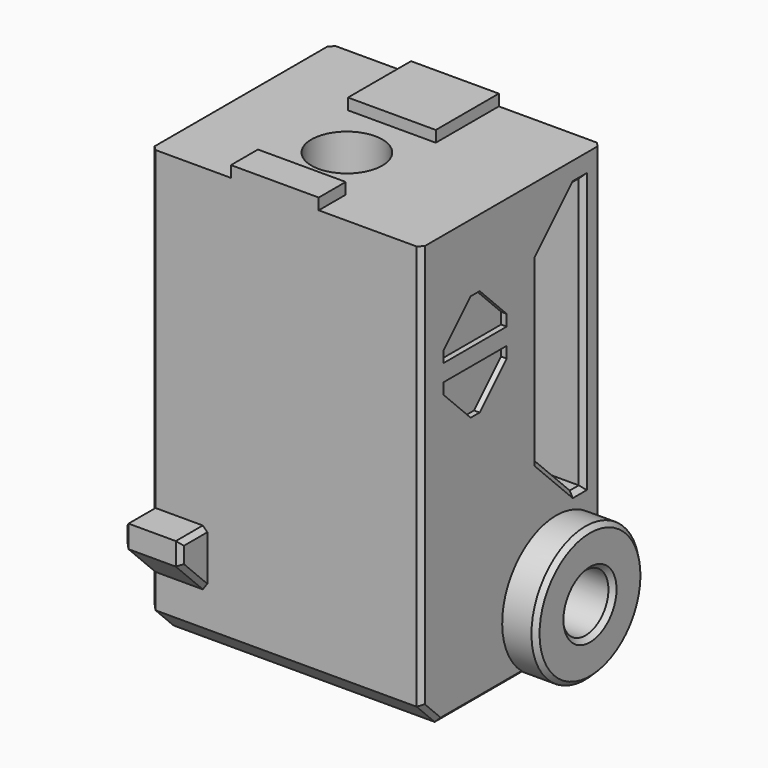
from build123d import *

# Parameters (mm, degrees)
CYLINDER024_R               = 7.5
CYLINDER024_DEPTH           = 2
CYLINDER012_R               = 3.15
CYLINDER012_DEPTH           = 43
CYLINDER011_R               = 2
CYLINDER011_DEPTH           = 39
CYLINDER013_R               = 2.55
CYLINDER013_DEPTH           = 6
BOX022_W                    = 1
BOX022_H                    = 7
BOX022_DEPTH                = 4
BOX023_W                    = 1
BOX023_H                    = 7
BOX023_DEPTH                = 4
CHAMFER003068012002016_SIZE = 3
BOX020_W                    = 7.8
BOX020_H                    = 3
BOX020_DEPTH                = 1
BOX018_W                    = 7.8
BOX018_H                    = 7
BOX018_DEPTH                = 1
BOX021_W                    = 5
BOX021_H                    = 4
BOX021_DEPTH                = 5
CHAMFER003068012002041_SIZE = 3
CHAMFER003068012002042_SIZE = 0.4
BOX017_W                    = 25
BOX017_H                    = 5
BOX017_DEPTH                = 24
CHAMFER003068012002002_SIZE = 4
BOX015_W                    = 24
BOX015_H                    = 20
BOX015_DEPTH                = 38
CHAMFER003068012002006_SIZE = 2
CHAMFER003068012002007_SIZE = 2
CHAMFER003068012002009_SIZE = 0.4
CYLINDER023_R               = 6
CYLINDER023_DEPTH           = 27
CHAMFER003068012002044_SIZE = 0.4
CHAMFER003068012002045_SIZE = 0.4


with BuildPart() as cylinder024:
    # Cylinder024 → Cylinder024 (new body)
    with BuildSketch(Plane(origin=(-15, 6, -12), x_dir=(1, 0, 0), z_dir=(0, 0, 1))):
        Circle(CYLINDER024_R)
    extrude(amount=CYLINDER024_DEPTH)


with BuildPart() as cylinder012:
    # Cylinder012 → Cylinder012 (new body)
    with BuildSketch(Plane(origin=(-15, 6, -11), x_dir=(1, 0, 0), z_dir=(0, 0, 1))):
        Circle(CYLINDER012_R)
    extrude(amount=CYLINDER012_DEPTH)


with BuildPart() as cylinder011:
    # Cylinder011 → Cylinder011 (new body)
    with BuildSketch(Plane(origin=(1, 13, -5), x_dir=(0, 0, 1), z_dir=(-1, 0, 0))):
        Circle(CYLINDER011_R)
    extrude(amount=CYLINDER011_DEPTH)


with BuildPart() as fusion001002012005:
    # Cylinder013 → Cylinder013 (new body)
    with BuildSketch(Plane(origin=(1, 13, -5), x_dir=(0, 0, 1), z_dir=(-1, 0, 0))):
        Circle(CYLINDER013_R)
    extrude(amount=CYLINDER013_DEPTH)

    # Fusion001002012005: union Cylinder011
    add(cylinder011.part)


with BuildPart() as cube022:
    # Box022 → Box022 (new body)
    with BuildSketch(Plane(origin=(-2.5, 0.5, 16.5), x_dir=(1, 0, 0), z_dir=(0, 0, 1))):
        with Locations((0.5, 3.5)):
            Rectangle(BOX022_W, BOX022_H)
    extrude(amount=BOX022_DEPTH)


with BuildPart() as chamfer003068012002016:
    # Box023 → Box023 (new body)
    with BuildSketch(Plane(origin=(-2.5, 0.5, 11), x_dir=(1, 0, 0), z_dir=(0, 0, 1))):
        with Locations((0.5, 3.5)):
            Rectangle(BOX023_W, BOX023_H)
    extrude(amount=BOX023_DEPTH)

    # Fusion001002012009: union Cube022
    add(cube022.part)

    # Chamfer003068012002016
    chamfer003068012002016_edges = [chamfer003068012002016.edges().sort_by_distance(p)[0] for p in [
        (-2, 0.5, 11),
        (-2, 7.5, 11),
        (-2, 0.5, 20.5),
        (-2, 7.5, 20.5),
    ]]
    chamfer(chamfer003068012002016_edges, length=CHAMFER003068012002016_SIZE)


with BuildPart() as chamfer003068012002016_1:
    # Chamfer003068012002016 placement: moved
    add(chamfer003068012002016.part.moved(Location((0, 0, 1.5))))


with BuildPart() as cube020:
    # Box020 → Box020 (new body)
    with BuildSketch(Plane(origin=(-18.9, -2, 28), x_dir=(1, 0, 0), z_dir=(0, 0, 1))):
        with Locations((3.9, 1.5)):
            Rectangle(BOX020_W, BOX020_H)
    extrude(amount=BOX020_DEPTH)


with BuildPart() as fusion001002012023:
    # Box018 → Box018 (new body)
    with BuildSketch(Plane(origin=(-18.9, 11, 28), x_dir=(1, 0, 0), z_dir=(0, 0, 1))):
        with Locations((3.9, 3.5)):
            Rectangle(BOX018_W, BOX018_H)
    extrude(amount=BOX018_DEPTH)

    # Fusion001002012023: union Cube020
    add(cube020.part)


with BuildPart() as chamfer003068012002042:
    # Box021 → Box021 (new body)
    with BuildSketch(Plane(origin=(-26, -5, -5), x_dir=(1, 0, 0), z_dir=(0, 0, 1))):
        with Locations((2.5, 2)):
            Rectangle(BOX021_W, BOX021_H)
    extrude(amount=BOX021_DEPTH)

    # Chamfer003068012002041
    chamfer003068012002041_edges = [chamfer003068012002042.edges().sort_by_distance(p)[0] for p in [
        (-23.5, -5, -5),
    ]]
    chamfer(chamfer003068012002041_edges, length=CHAMFER003068012002041_SIZE)

    # Chamfer003068012002042
    chamfer003068012002042_edges = [chamfer003068012002042.edges().sort_by_distance(p)[0] for p in [
        (-26, -5, -1),
        (-26, -3.5, -3.5),
        (-26, -3, 0),
        (-21, -5, -1),
        (-21, -3.5, -3.5),
        (-21, -3, 0),
    ]]
    chamfer(chamfer003068012002042_edges, length=CHAMFER003068012002042_SIZE)


with BuildPart() as chamfer003068012002002:
    # Box017 → Box017 (new body)
    with BuildSketch(Plane(origin=(-26, 11, 2), x_dir=(1, 0, 0), z_dir=(0, 0, 1))):
        with Locations((12.5, 2.5)):
            Rectangle(BOX017_W, BOX017_H)
    extrude(amount=BOX017_DEPTH)

    # Chamfer003068012002002
    chamfer003068012002002_edges = [chamfer003068012002002.edges().sort_by_distance(p)[0] for p in [
        (-13.5, 11, 2),
        (-13.5, 11, 26),
    ]]
    chamfer(chamfer003068012002002_edges, length=CHAMFER003068012002002_SIZE)


with BuildPart() as chamfer003068012002009:
    # Box015 → Box015 (new body)
    with BuildSketch(Plane(origin=(-26, -2, -10), x_dir=(1, 0, 0), z_dir=(0, 0, 1))):
        with Locations((12, 10)):
            Rectangle(BOX015_W, BOX015_H)
    extrude(amount=BOX015_DEPTH)

    # Cut001008: cut Chamfer003068012002002
    add(chamfer003068012002002.part, mode=Mode.SUBTRACT)

    # Chamfer003068012002006
    chamfer003068012002006_edges = [chamfer003068012002009.edges().sort_by_distance(p)[0] for p in [
        (-14, 18, -10),
    ]]
    chamfer(chamfer003068012002006_edges, length=CHAMFER003068012002006_SIZE)

    # Chamfer003068012002007
    chamfer003068012002007_edges = [chamfer003068012002009.edges().sort_by_distance(p)[0] for p in [
        (-14, -2, -10),
    ]]
    chamfer(chamfer003068012002007_edges, length=CHAMFER003068012002007_SIZE)

    # Chamfer003068012002009
    chamfer003068012002009_edges = [chamfer003068012002009.edges().sort_by_distance(p)[0] for p in [
        (-26, 8, -10),
        (-26, -1, -9),
        (-26, 17, -9),
        (-26, -2, 10),
        (-26, 18, 10),
        (-26, 13, 4),
        (-26, 15.5, 2),
        (-26, 16, 14),
        (-26, 15.5, 26),
        (-26, 13, 24),
        (-26, 11, 14),
        (-2, 8, -10),
        (-2, -1, -9),
        (-2, 17, -9),
        (-2, -2, 10),
        (-2, 18, 10),
        (-2, 13, 4),
        (-2, 15.5, 2),
        (-2, 16, 14),
        (-2, 15.5, 26),
        (-2, 13, 24),
        (-2, 11, 14),
    ]]
    chamfer(chamfer003068012002009_edges, length=CHAMFER003068012002009_SIZE)


with BuildPart() as universal_pulley_mount:
    # Cylinder023 → Cylinder023 (new body)
    with BuildSketch(Plane(origin=(1, 13, -5), x_dir=(0, 0, 1), z_dir=(-1, 0, 0))):
        Circle(CYLINDER023_R)
    extrude(amount=CYLINDER023_DEPTH)

    # Chamfer003068012002044
    chamfer003068012002044_edges = [universal_pulley_mount.edges().sort_by_distance(p)[0] for p in [
        (-26, 13, -11),
    ]]
    chamfer(chamfer003068012002044_edges, length=CHAMFER003068012002044_SIZE)

    # Fusion001002012022: union Chamfer003068012002009
    add(chamfer003068012002009.part)

    # Fusion001002012024: union Fusion001002012023, Chamfer003068012002042
    add(fusion001002012023.part)
    add(chamfer003068012002042.part)

    # Cut001023: cut Chamfer003068012002016
    add(chamfer003068012002016_1.part, mode=Mode.SUBTRACT)

    # Cut001024: cut Fusion001002012005
    add(fusion001002012005.part, mode=Mode.SUBTRACT)

    # Cut001025: cut Cylinder012
    add(cylinder012.part, mode=Mode.SUBTRACT)

    # Cut001026: cut Cylinder024
    add(cylinder024.part, mode=Mode.SUBTRACT)

    # Chamfer003068012002045
    chamfer003068012002045_edges = [universal_pulley_mount.edges().sort_by_distance(p)[0] for p in [
        (1, 13, -11),
        (1, 13, -7.55),
        (-18.15, 6, -10),
        (-26, 13, -7),
    ]]
    chamfer(chamfer003068012002045_edges, length=CHAMFER003068012002045_SIZE)


solid = universal_pulley_mount.part
